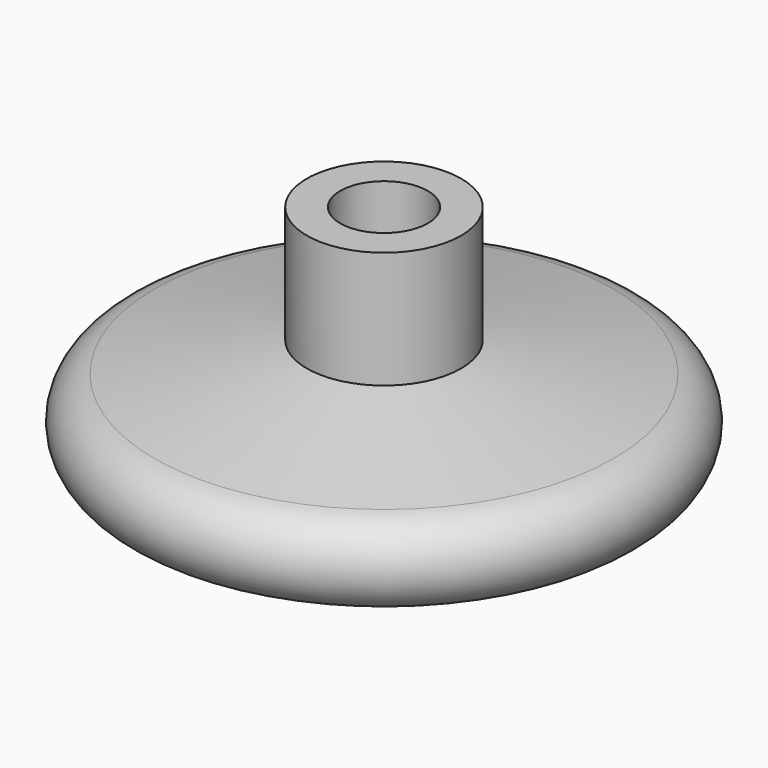
from build123d import *

# Parameters (mm, degrees)
F2_R     = 4.7625
F3_DEPTH = 9.525
F4_R     = 1.5875
F5_DEPTH = 12.7


with BuildPart() as f1:
    # F0 (on Front) → F1 (revolve)
    with BuildSketch(Plane.XZ):
        with BuildLine():
            Line((0, 29.8668724909), (0, 0))
            Line((0, 0), (24.9306534148, 4.8691192822))
            ThreePointArc((24.9306534148, 4.8691192822), (28.6638483422, 9.4019658913), (24.9306534148, 13.9348125005))
            Line((24.9306534148, 13.9348125005), (8.382, 17.1668724909))
            Line((8.382, 17.1668724909), (8.382, 29.8668724909))
            Line((8.382, 29.8668724909), (0, 29.8668724909))
        make_face()
    revolve(axis=Axis((0, 0, 14.9334362454), (0, 0, -1)))

    # F2 (on face) → F3 (cut)
    with BuildSketch(Plane.XY.offset(29.8668724909)):
        Circle(F2_R)
    extrude(amount=-F3_DEPTH, mode=Mode.SUBTRACT)

    # F4 (on Top) → F5 (cut)
    with BuildSketch(Plane.XY):
        Circle(F4_R)
    extrude(amount=F5_DEPTH, mode=Mode.SUBTRACT)


solid = f1.part
